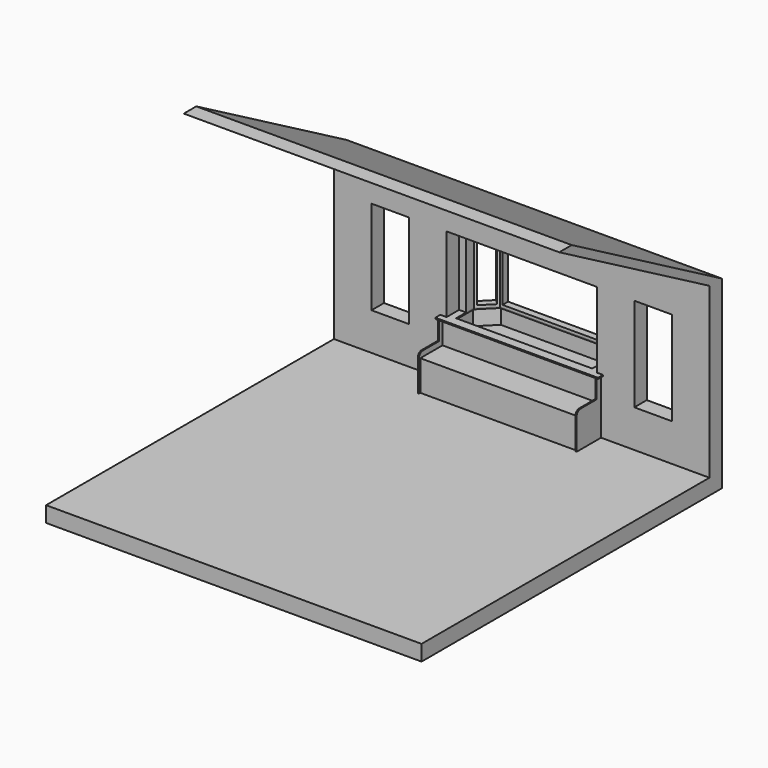
from build123d import *

# Parameters (mm, degrees)
F0_W      = 6096
F0_H      = 6096
F1_DEPTH  = 254
F2_W      = 6096
F2_H      = 254
F3_DEPTH  = 2743.2
F5_DEPTH  = 6096
F6_W      = 609.6
F6_H      = 1524
F7_DEPTH  = 304.8
F8_W      = 2438.4
F8_H      = 1524
F9_DEPTH  = 304.8
F11_DEPTH = 25.4
F13_DEPTH = 254
F15_DEPTH = 19.05
F16_W     = 2438.4
F16_H     = 190.5
F17_DEPTH = 38.1
F18_W     = 2438.4
F18_H     = 279.4
F19_DEPTH = 19.05
F20_W     = 19.05
F20_H     = 889
F20_W_2   = 406.4
F20_H_2   = 584.2
F21_DEPTH = 19.05
F22_W     = 406.4
F22_H     = 584.2
F23_DEPTH = 19.05
F24_W     = 19.05
F24_H     = 476.25
F25_DEPTH = 2540
F26_R     = 76.2
F26_2_R   = 76.2
F28_DEPTH = 1225.55
F29_W     = 1657.9107796415
F29_H     = 1149.35
F30_DEPTH = 127
F31_W     = 260.1630734528
F31_H     = 1149.35
F32_DEPTH = 127
F33_W     = 260.1630734528
F33_H     = 1149.35
F34_DEPTH = 127
F35_DEPTH = 190.5


with BuildPart() as f1:
    # F0 (on Top) → F1 (new body)
    with BuildSketch(Plane.XY):
        Rectangle(F0_W, F0_H)
    extrude(amount=-F1_DEPTH)

    # F2 (on face) → F3 (join)
    with BuildSketch(Plane.XY):
        with Locations((0, 2921)):
            Rectangle(F2_W, F2_H)
    extrude(amount=F3_DEPTH)

    # F4 (on face) → F5 (join)
    with BuildSketch(Plane.YZ.offset(3048)):
        Polygon((2794, 2743.2), (3048, 2743.2), (0, 4461.2135887146), (-254, 4461.2135887146), align=None)
    extrude(amount=-F5_DEPTH)

    # F6 (on face) → F7 (cut)
    with BuildSketch(Plane.XZ.offset(-2794)):
        with Locations((-2133.6, 1371.6)):
            Rectangle(F6_W, F6_H)
        with Locations((2133.6, 1371.6)):
            Rectangle(F6_W, F6_H)
    extrude(amount=-F7_DEPTH, mode=Mode.SUBTRACT)

    # F8 (on face) → F9 (cut)
    with BuildSketch(Plane.XZ.offset(-2794)):
        with Locations((0, 1371.6)):
            Rectangle(F8_W, F8_H)
    extrude(amount=-F9_DEPTH, mode=Mode.SUBTRACT)


with BuildPart() as f11:
    # F10 (on face) → F11 (new body)
    with BuildSketch(Plane.XY.offset(609.6)):
        Polygon((-1219.2, 3251.2), (-1219.2, 3048), (1219.2, 3048), (1219.2, 3251.2), (914.4, 3556), (-914.4, 3556), align=None)
        Polygon((-1219.2, 3048), (-1219.2, 2794), (0, 2794), (1219.2, 2794), (1219.2, 3048), align=None)
    extrude(amount=F11_DEPTH)


with BuildPart() as f13:
    # F12 (on face) → F13 (new body)
    with BuildSketch(Plane.XY.offset(635)):
        Polygon((-1219.2, 3251.2), (-1219.2, 2794), (1219.2, 2794), (1219.2, 3251.2), (914.4, 3556), (-914.4, 3556), align=None)
        Polygon((-1130.3, 3214.376414305), (-877.576414305, 3467.1), (877.576414305, 3467.1), (1130.3, 3214.376414305), (1130.3, 3149.6), (1130.3, 3124.2), (1130.3, 2819.4), (-1130.3, 2819.4), (-1130.3, 3124.2), (-1130.3, 3149.6), align=None, mode=Mode.SUBTRACT)
    extrude(amount=F13_DEPTH)


with BuildPart() as f15:
    # F14 (on face) → F15 (new body)
    with BuildSketch(Plane.XY.offset(889)):
        Polygon((-1219.2, 2794), (1219.2, 2794), (1219.2, 3251.2), (914.4, 3556), (-914.4, 3556), (-1219.2, 3251.2), align=None)
        Polygon((-1104.9, 2844.8), (-1104.9, 3203.8553898208), (-867.0553898208, 3441.7), (867.0553898208, 3441.7), (1104.9, 3203.8553898208), (1104.9, 2844.8), align=None, mode=Mode.SUBTRACT)
        Polygon((1320.8, 2794), (1219.2, 2794), (-1219.2, 2794), (-1320.8, 2794), (-1320.8, 2692.4), (1320.8, 2692.4), align=None)
    extrude(amount=F15_DEPTH)


with BuildPart() as f17:
    # F16 (on face) → F17 (new body)
    with BuildSketch(Plane(origin=(0, 3048, 0), x_dir=(-1, 0, 0), z_dir=(0, 1, 0))):
        with Locations((0, 2228.85)):
            Rectangle(F16_W, F16_H)
    extrude(amount=F17_DEPTH)


with BuildPart() as f19:
    # F18 (on face) → F19 (new body)
    with BuildSketch(Plane.XZ.offset(-2794)):
        with Locations((0, 749.3)):
            Rectangle(F18_W, F18_H)
        Polygon((-1219.2, 889), (-1270, 889), (-1270, 0), (1270, 0), (1270, 889), (1219.2, 889), (1219.2, 609.6), (-1219.2, 609.6), align=None)
    extrude(amount=F19_DEPTH)


with BuildPart() as f21:
    # F20 (on face) → F21 (new body)
    with BuildSketch(Plane(origin=(-1270, 0, 0), x_dir=(0, -1, 0), z_dir=(-1, 0, 0))):
        with Locations((-2784.475, 444.5)):
            Rectangle(F20_W, F20_H)
        with Locations((-2501.9, 292.1)):
            Rectangle(F20_W_2, F20_H_2)
        Polygon((-2705.1, 889), (-2774.95, 889), (-2774.95, 0), (-2705.1, 0), (-2705.1, 584.2), align=None)
    extrude(amount=F21_DEPTH)

    # F26#2
    f26_2_edges = [f21.edges().sort_by_distance(p)[0] for p in [
        (-1279.525, 2298.7, 584.2),
    ]]
    fillet(f26_2_edges, radius=F26_2_R)


with BuildPart() as f23:
    # F22 (on face) → F23 (new body)
    with BuildSketch(Plane.YZ.offset(1270)):
        Polygon((2794, 0), (2794, 889), (2705.1, 889), (2705.1, 584.2), (2705.1, 0), align=None)
        with Locations((2501.9, 292.1)):
            Rectangle(F22_W, F22_H)
    extrude(amount=F23_DEPTH)

    # F26
    f26_edges = [f23.edges().sort_by_distance(p)[0] for p in [
        (1279.525, 2298.7, 584.2),
    ]]
    fillet(f26_edges, radius=F26_R)


with BuildPart() as f25:
    # F24 (on face) → F25 (new body, through all)
    with BuildSketch(Plane.YZ.offset(-1270)):
        Polygon((2774.95, 476.25), (2774.95, 495.3), (2324.1, 495.3), (2324.1, 476.25), (2343.15, 476.25), align=None)
        with Locations((2333.625, 238.125)):
            Rectangle(F24_W, F24_H)
    extrude(amount=F25_DEPTH)


with BuildPart() as f28:
    # F27 (on face) → F28 (new body, through all)
    with BuildSketch(Plane.XY.offset(908.05)):
        Polygon((-1219.2, 3251.2), (-1219.2, 3048), (-1104.9, 3048), (-1104.9, 3203.8553898208), (-867.0553898208, 3441.7), (867.0553898208, 3441.7), (1104.9, 3203.8553898208), (1104.9, 3048), (1219.2, 3048), (1219.2, 3251.2), (914.4, 3556), (-914.4, 3556), align=None)
    extrude(amount=F28_DEPTH)

    # F29 (on face) → F30 (cut)
    with BuildSketch(Plane.XZ.offset(-3441.7)):
        with Locations((0, 1520.825)):
            Rectangle(F29_W, F29_H)
    extrude(amount=-F30_DEPTH, mode=Mode.SUBTRACT)

    # F31 (on face) → F32 (cut)
    with BuildSketch(Plane(origin=(-2154.3776949104, 2154.3776949104, 0), x_dir=(0.7071067812, 0.7071067812, 0), z_dir=(0.7071067812, -0.7071067812, 0))):
        with Locations((1652.3671262767, 1520.825)):
            Rectangle(F31_W, F31_H)
    extrude(amount=-F32_DEPTH, mode=Mode.SUBTRACT)

    # F33 (on face) → F34 (cut)
    with BuildSketch(Plane(origin=(2154.3776949104, 2154.3776949104, 0), x_dir=(0.7071067812, -0.7071067812, 0), z_dir=(-0.7071067812, -0.7071067812, 0))):
        with Locations((-1652.3671262767, 1520.825)):
            Rectangle(F33_W, F33_H)
    extrude(amount=-F34_DEPTH, mode=Mode.SUBTRACT)


with BuildPart() as f35:
    # F35 (new, through all): a face of the model
    f35_faces = [f28.part.faces().sort_by_distance(p)[0] for p in [
        (1194.2924538342, 3149.6, 2133.6),
    ]]
    extrude(f35_faces, amount=F35_DEPTH)


solid = Compound([f1.part, f11.part, f13.part, f15.part, f17.part, f19.part, f21.part, f23.part, f25.part, f28.part, f35.part])
